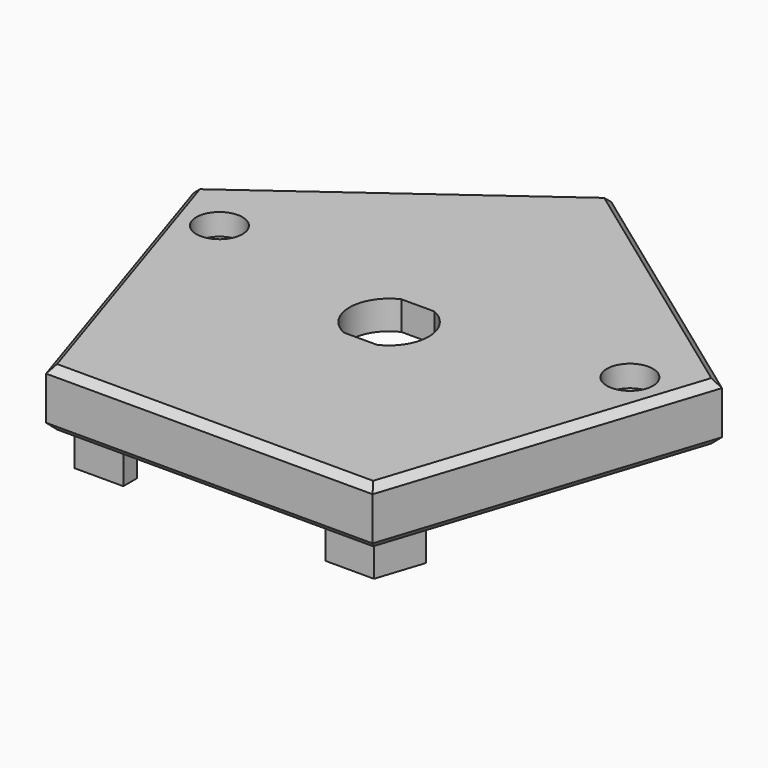
from build123d import *

# Parameters (mm, degrees)
SKETCH017_R     = 1.9
PAD007_DEPTH    = 8
POCKET010_DEPTH = 3
POCKET011_DEPTH = 4
SKETCH021_W     = 16.2
SKETCH021_H     = 16.2
POCKET012_DEPTH = 1
SKETCH022_R     = 3.2
POCKET013_DEPTH = 3
PAD008_DEPTH    = 5
CHAMFER005_SIZE = 1


with BuildPart() as part:
    # Sketch017 (on Face1 of ShapeBinder001) → Pad007 (new body)
    with BuildSketch(Plane.XY.offset(157)):
        Polygon((0, 38.536997), (-36.650862, 11.908587), (-22.651479, -31.177086), (22.651479, -31.177086), (36.650862, 11.908587), align=None)
        with Locations((-28.478046, 6.171653)):
            Circle(SKETCH017_R, mode=Mode.SUBTRACT)
        with Locations((28.478046, 6.171653)):
            Circle(SKETCH017_R, mode=Mode.SUBTRACT)
        with BuildLine():
            ThreePointArc((-2.291288, 5), (-5.5, 0), (-2.291288, -5))
            Line((-2.291288, -5), (2.291288, -5))
            ThreePointArc((2.291288, -5), (5.5, 0), (2.291288, 5))
            Line((-2.291288, 5), (2.291288, 5))
        make_face(mode=Mode.SUBTRACT)
    extrude(amount=PAD007_DEPTH)

    # Sketch019 (on Face12 of Pad007) → Pocket010 (cut)
    with BuildSketch(Plane(origin=(0, 0, 157), x_dir=(1, 0, 0), z_dir=(0, 0, -1))):
        with BuildLine():
            Line((-27.884018, -1.107353), (-19.018766, 26.177086))
            Line((-19.018766, 26.177086), (19.018766, 26.177086))
            Line((19.018766, 26.177086), (27.884018, -1.107353))
            Line((27.884018, -1.107353), (26.932961, -1.41637))
            ThreePointArc((26.932961, -1.41637), (23.722763, -4.626568), (24.432961, -9.110579))
            Line((26.105291, -11.412344), (24.432961, -9.110579))
            Line((0, -30.378949), (26.105291, -11.412344))
            Line((-26.105291, -11.412344), (0, -30.378949))
            Line((-26.105291, -11.412344), (-24.432961, -9.110579))
            ThreePointArc((-24.432961, -9.110579), (-23.722763, -4.626568), (-26.932961, -1.41637))
            Line((-27.884018, -1.107353), (-26.932961, -1.41637))
        make_face()
    extrude(amount=-POCKET010_DEPTH, mode=Mode.SUBTRACT)

    # CopySketch020 → Pocket011 (cut)
    with BuildSketch(Plane(origin=(0, 0, 157), x_dir=(1, 0, 0), z_dir=(0, 0, -1))):
        Polygon((-31.713466, -10.30433), (0, -33.345512), (31.713466, -10.30433), (32.77148, -11.76056), (0, -35.570434), (-32.77148, -11.76056), align=None)
    extrude(amount=-POCKET011_DEPTH, mode=Mode.SUBTRACT)

    # Sketch021 (on Face31 of Pocket011) → Pocket012 (cut)
    with BuildSketch(Plane(origin=(0, 0, 160), x_dir=(1, 0, 0), z_dir=(0, 0, -1))):
        Rectangle(SKETCH021_W, SKETCH021_H)
    extrude(amount=-POCKET012_DEPTH, mode=Mode.SUBTRACT)

    # Sketch022 (on Face5 of Pocket012) → Pocket013 (cut)
    with BuildSketch(Plane.XY.offset(165)):
        with Locations((-28.478046, 6.171653)):
            Circle(SKETCH022_R)
        with Locations((28.478046, 6.171653)):
            Circle(SKETCH022_R)
    extrude(amount=-POCKET013_DEPTH, mode=Mode.SUBTRACT)

    # Sketch023 (on Face4 of Pocket013) → Pad008 (join)
    with BuildSketch(Plane(origin=(0, 0, 157), x_dir=(1, 0, 0), z_dir=(0, 0, -1))):
        Polygon((-20.563851, 21.421803), (-19.018766, 26.177086), (-14.018766, 26.177086), (-14.018766, 28.577086), (-20.762468, 28.577086), (-22.846387, 22.163444), align=None)
        Polygon((14.018766, 26.177086), (19.018766, 26.177086), (20.563851, 21.421803), (22.846387, 22.163444), (20.762468, 28.577086), (14.018766, 28.577086), align=None)
    extrude(amount=PAD008_DEPTH)

    # Chamfer005
    chamfer005_edges = [part.edges().sort_by_distance(p)[0] for p in [
        (18.325431, 25.222792, 157),
        (-18.325431, 25.222792, 157),
        (29.65117, -9.634249, 157),
        (0, -31.177086, 157),
        (-29.65117, -9.634249, 157),
        (18.325431, 25.222792, 165),
        (29.65117, -9.634249, 165),
        (-18.325431, 25.222792, 165),
        (-29.65117, -9.634249, 165),
        (0, -31.177086, 165),
    ]]
    chamfer(chamfer005_edges, length=CHAMFER005_SIZE)


solid = part.part
